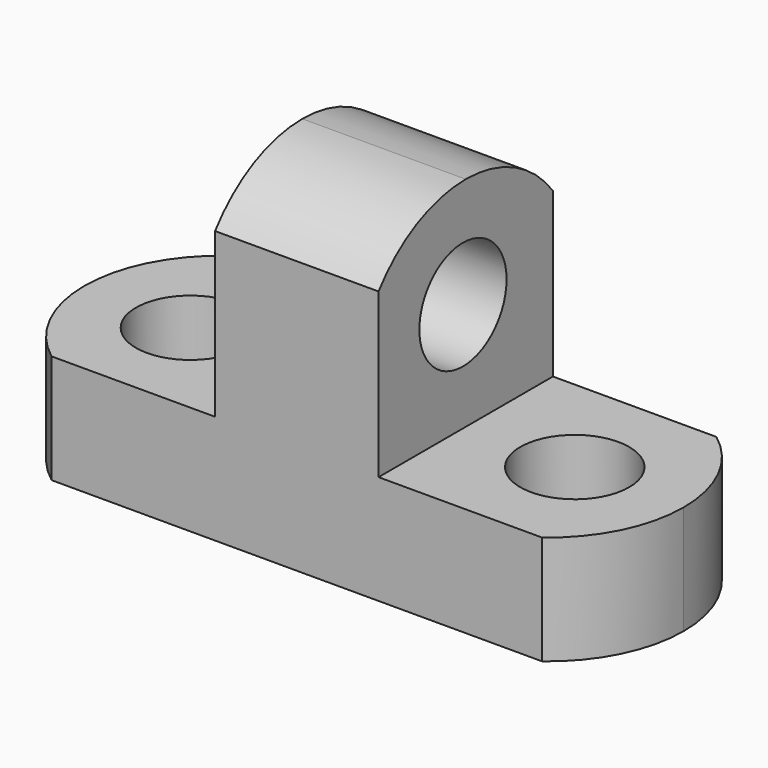
from build123d import *

# Parameters (mm, degrees)
F0_W      = 69.85
F0_H      = 38.1
F1_DEPTH  = 25.4
F2_W      = 25.4
F2_H      = 25.4
F3_DEPTH  = 25.4
F4_W      = 25.4
F4_H      = 25.4
F5_DEPTH  = 25.4
F7_DEPTH  = 25.4
F9_DEPTH  = 25.4
F11_DEPTH = 50.8
F12_R     = 6.35
F13_DEPTH = 25.4
F14_R     = 6.35
F15_DEPTH = 50.8


with BuildPart() as f1:
    # F0 (on Front) → F1 (new body)
    with BuildSketch(Plane.XZ):
        with Locations((34.925, 19.05)):
            Rectangle(F0_W, F0_H)
    extrude(amount=-F1_DEPTH)

    # F2 (on Front) → F3 (cut)
    with BuildSketch(Plane.XZ):
        with Locations((57.15, 25.4)):
            Rectangle(F2_W, F2_H)
    extrude(amount=-F3_DEPTH, mode=Mode.SUBTRACT)

    # F4 (on Front) → F5 (cut)
    with BuildSketch(Plane.XZ):
        with Locations((12.7, 25.4)):
            Rectangle(F4_W, F4_H)
    extrude(amount=-F5_DEPTH, mode=Mode.SUBTRACT)

    # F6 (on Top) → F7 (cut)
    with BuildSketch(Plane.XY):
        with BuildLine():
            ThreePointArc((63.5, 25.4), (68.174032, 19.799516), (69.85, 12.7))
            Line((69.85, 12.7), (69.85, 25.4))
            Line((69.85, 25.4), (63.5, 25.4))
        make_face()
        with BuildLine():
            ThreePointArc((69.85, 12.7), (68.174032, 5.600484), (63.5, 0))
            Line((63.5, 0), (69.85, 0))
            Line((69.85, 0), (69.85, 12.7))
        make_face()
    extrude(amount=F7_DEPTH, mode=Mode.SUBTRACT)

    # F8 (on Top) → F9 (cut)
    with BuildSketch(Plane.XY):
        with BuildLine():
            ThreePointArc((6.35, 0), (1.675968, 5.600484), (0, 12.7))
            Line((0, 12.7), (0, 0))
            Line((0, 0), (6.35, 0))
        make_face()
        with BuildLine():
            ThreePointArc((0, 12.7), (1.675968, 19.799516), (6.35, 25.4))
            Line((6.35, 25.4), (0, 25.4))
            Line((0, 25.4), (0, 12.7))
        make_face()
    extrude(amount=F9_DEPTH, mode=Mode.SUBTRACT)

    # F10 (on Right) → F11 (cut)
    with BuildSketch(Plane.YZ):
        with BuildLine():
            ThreePointArc((0, 31.75), (5.600484, 36.424032), (12.7, 38.1))
            Line((12.7, 38.1), (0, 38.1))
            Line((0, 38.1), (0, 31.75))
        make_face()
        with BuildLine():
            ThreePointArc((12.7, 38.1), (19.799516, 36.424032), (25.4, 31.75))
            Line((25.4, 31.75), (25.4, 38.1))
            Line((25.4, 38.1), (12.7, 38.1))
        make_face()
    extrude(amount=F11_DEPTH, mode=Mode.SUBTRACT)

    # F12 (on Top) → F13 (cut)
    with BuildSketch(Plane.XY):
        with Locations((12.693542, 12.295053)):
            Circle(F12_R)
        with Locations((57.15, 12.7)):
            Circle(F12_R)
    extrude(amount=F13_DEPTH, mode=Mode.SUBTRACT)

    # F14 (on Right) → F15 (cut)
    with BuildSketch(Plane.YZ):
        with Locations((12.295053, 25.406458)):
            Circle(F14_R)
    extrude(amount=F15_DEPTH, mode=Mode.SUBTRACT)


solid = f1.part
